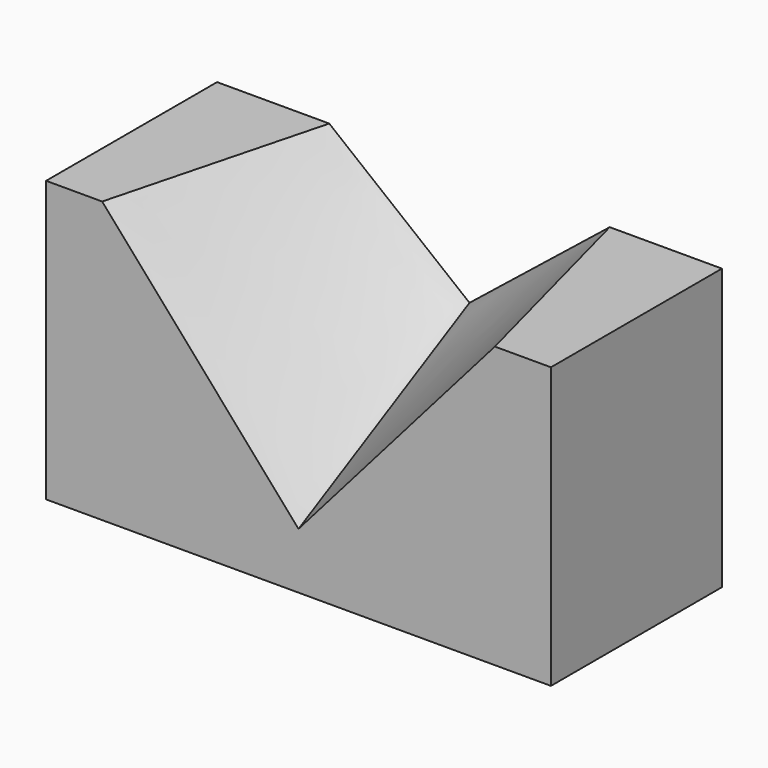
from build123d import *

# Parameters (mm, degrees)
F0_W     = 90
F0_H     = 50
F1_DEPTH = 38.1


with BuildPart() as f1:
    # F0 (on Front) → F1 (new body)
    with BuildSketch(Plane.XZ):
        with Locations((-10.299742, 47.636209)):
            Rectangle(F0_W, F0_H)
    extrude(amount=F1_DEPTH)

    # F2 (on face) → F4 section 0
    with BuildSketch(Plane.XZ.offset(38.1)):
        Polygon((24.700258, 72.636209), (-45.299742, 72.636209), (-10.299742, 32.636209), align=None)
    # F3 (on face) → F4 section 1
    with BuildSketch(Plane(origin=(0, 0, 0), x_dir=(-1, 0, 0), z_dir=(0, 1, 0))):
        Polygon((35.299742, 72.636209), (-14.700258, 72.636209), (10.299742, 52.636209), align=None)
    loft(mode=Mode.SUBTRACT)


solid = f1.part
